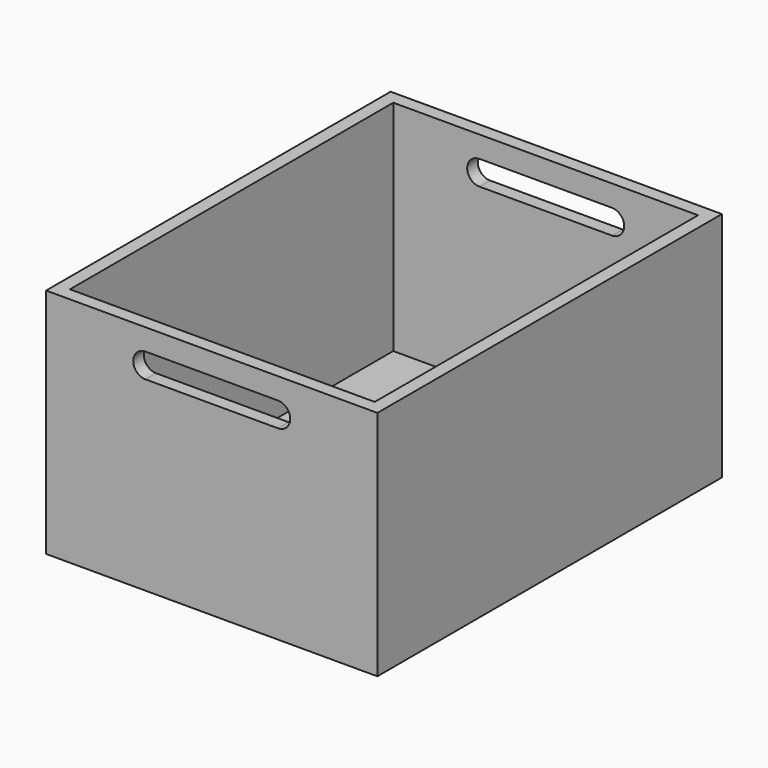
from build123d import *

# Parameters (mm, degrees)
F0_W     = 50
F0_H     = 65
F1_DEPTH = 35
F2_T     = -2
F4_DEPTH = 100


with BuildPart() as f1:
    # F0 (on Top) → F1 (new body)
    with BuildSketch(Plane.XY):
        with Locations((25, -32.5)):
            Rectangle(F0_W, F0_H)
    extrude(amount=F1_DEPTH)

    # F2
    f2_openings = [f1.faces().sort_by_distance(p)[0] for p in [
        (25, -32.5, 35),
    ]]
    offset(amount=F2_T, openings=f2_openings)

    # F3 (on face) → F4 (cut, symmetric)
    with BuildSketch(Plane.XZ.offset(65)):
        with BuildLine():
            Line((35, 31.769874), (15, 31.769874))
            ThreePointArc((15, 31.769874), (13.153528, 29.923402), (15, 28.076929))
            Line((15, 28.076929), (35, 28.076929))
            ThreePointArc((35, 28.076929), (36.846472, 29.923402), (35, 31.769874))
        make_face()
    extrude(amount=F4_DEPTH, both=True, mode=Mode.SUBTRACT)


solid = f1.part
